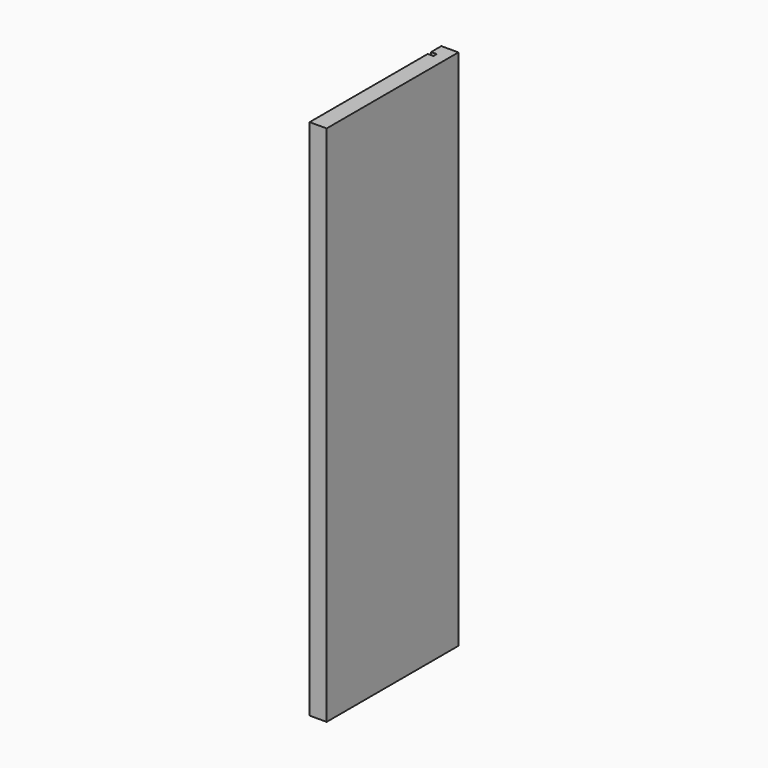
from build123d import *

# Parameters (mm, degrees)
F0_W     = 184.15
F0_H     = 584.2
F1_DEPTH = 19.05
F2_W     = 4.7625
F2_H     = 450.85
F3_DEPTH = 6.35


with BuildPart() as f1:
    # F0 (on Right) → F1 (new body)
    with BuildSketch(Plane.YZ):
        Rectangle(F0_W, F0_H)
    extrude(amount=F1_DEPTH)

    # F2 (on face) → F3 (cut)
    with BuildSketch(Plane(origin=(0, 0, 0), x_dir=(0, -1, 0), z_dir=(-1, 0, 0))):
        with Locations((-75.40625, 66.675)):
            Rectangle(F2_W, F2_H)
    extrude(amount=-F3_DEPTH, mode=Mode.SUBTRACT)


solid = f1.part
